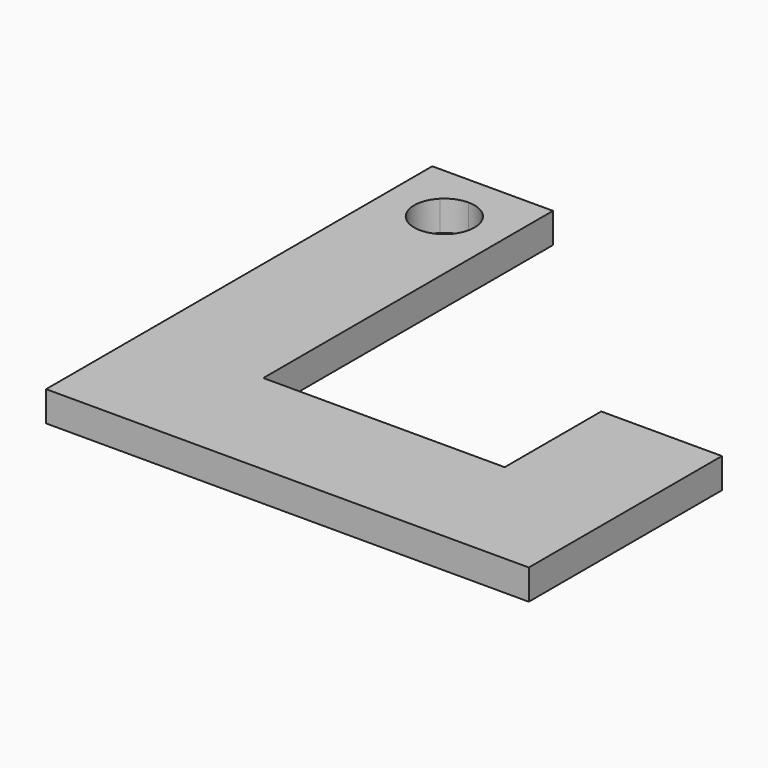
from build123d import *

# Parameters (mm, degrees)
F0_W     = 12.7
F0_H     = 12.7
F1_DEPTH = 3.175


with BuildPart() as f1:
    # F0 (on Top) → F1 (new body)
    with BuildSketch(Plane.XY):
        with Locations((44.45, 19.05)):
            Rectangle(F0_W, F0_H)
        Polygon((38.1, 12.7), (50.8, 0), (50.8, 12.7), align=None)
        Polygon((12.7, 12.7), (12.7, 0), (50.8, 0), (38.1, 12.7), align=None)
        with BuildLine():
            Line((4.1049359697, 46.6950640303), (0, 50.8))
            Line((0, 50.8), (0, 0))
            Line((0, 0), (12.7, 0))
            Line((12.7, 0), (12.7, 12.7))
            Line((12.7, 12.7), (12.7, 38.1))
            Line((12.7, 38.1), (8.5950640303, 42.2049359697))
            ThreePointArc((8.5950640303, 42.2049359697), (4.1049359697, 42.2049359697), (4.1049359697, 46.6950640303))
        make_face()
        with BuildLine():
            Line((12.7, 50.8), (6.35, 50.8))
            Line((6.35, 50.8), (6.35, 47.625))
            ThreePointArc((6.35, 47.625), (8.5950640303, 46.6950640303), (9.525, 44.45))
            ThreePointArc((9.525, 44.45), (9.2833175157, 43.2349801022), (8.5950640303, 42.2049359697))
            Line((8.5950640303, 42.2049359697), (12.7, 38.1))
            Line((12.7, 38.1), (12.7, 50.8))
        make_face()
        with BuildLine():
            Line((6.35, 50.8), (0, 50.8))
            Line((0, 50.8), (4.1049359697, 46.6950640303))
            ThreePointArc((4.1049359697, 46.6950640303), (5.1349801022, 47.3833175157), (6.35, 47.625))
            Line((6.35, 47.625), (6.35, 50.8))
        make_face()
    extrude(amount=F1_DEPTH)


solid = f1.part
